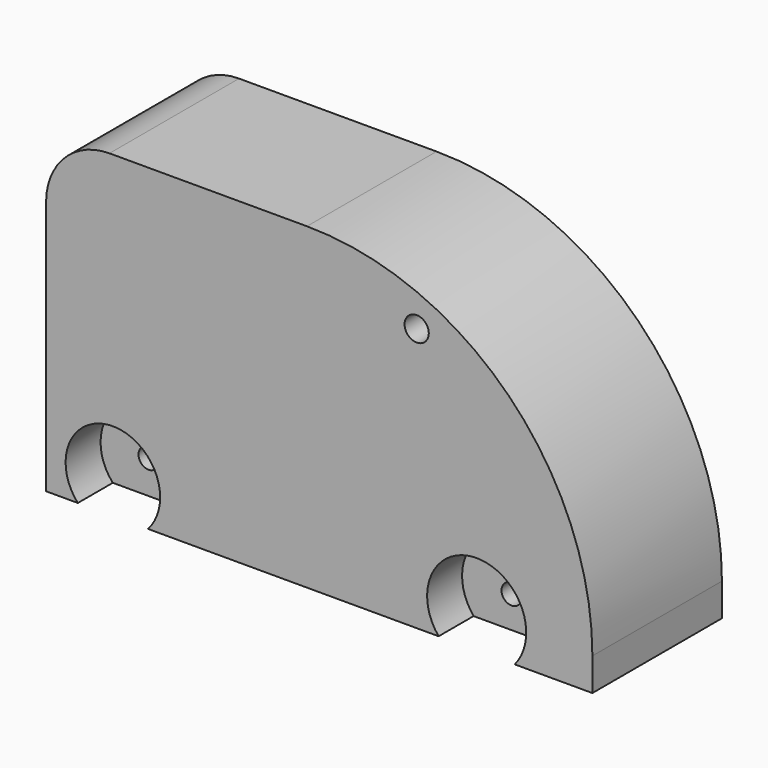
from build123d import *

# Parameters (mm, degrees)
F0_R     = 3.800771
F1_DEPTH = 50.8
F3_D     = 6.35
F2_R     = 14.830071
F2_R_2   = 15.542538
F4_DEPTH = 50.8
F6_DEPTH = 25.4
F8_D     = 6.35
F9_D     = 6.35


with BuildPart() as f1:
    # F0 (on Front) → F1 (new body)
    with BuildSketch(Plane.XZ):
        with BuildLine():
            Line((-17.417282, 46.986144), (-79.371665, 46.986144))
            ThreePointArc((-79.371665, 46.986144), (-93.436013, 41.160501), (-99.261656, 27.096153))
            Line((-99.261656, 27.096153), (-99.261656, -52.813884))
            Line((-99.261656, -52.813884), (72.118267, -52.813884))
            Line((72.118267, -52.813884), (72.118267, -42.549405))
            ThreePointArc((72.118267, -42.549405), (45.893912, 20.761789), (-17.417282, 46.986144))
        make_face()
        with Locations((17.000813, 29.867163)):
            Circle(F0_R, mode=Mode.SUBTRACT)
    extrude(amount=F1_DEPTH)

    # F3 (through all)
    with Locations(Plane.XZ.offset(50.8)):
        with Locations((-78.307003, -42.858165), (35.819549, -42.858165)):
            Hole(F3_D / 2)

    # F2 (on face) → F4 (cut)
    with BuildSketch(Plane.XZ.offset(50.8)):
        with Locations((-78.307003, -42.858165)):
            Circle(F2_R)
        with Locations((35.819549, -42.858165)):
            Circle(F2_R_2)
    extrude(amount=-F4_DEPTH, mode=Mode.SUBTRACT)

    # F5 (on face) → F6 (join)
    with BuildSketch(Plane(origin=(0, 0, -52.813884), x_dir=(1, 0, 0), z_dir=(0, 0, -1))):
        Polygon((23.884133, 22.274217), (23.884133, 18.090272), (23.884133, 13.775429), (55.002525, 13.775429), (55.002525, 37.086386), (23.884133, 37.086386), (23.884133, 35.816312), align=None)
        Polygon((9.837548, 22.274217), (23.884133, 22.274217), (23.884133, 35.816312), (23.884133, 37.086386), (9.837548, 37.086386), align=None)
        Polygon((23.884133, 13.775429), (23.884133, 18.090272), (23.884133, 22.274217), (9.837548, 22.274217), (9.837548, 13.775429), align=None)
        Polygon((-67.315431, 17.847452), (-67.315431, 13.775429), (-54.996047, 13.775429), (-54.996047, 37.086386), (-67.315431, 37.086386), (-67.315431, 35.087846), align=None)
        Polygon((-96.761517, 13.775429), (-67.315431, 13.775429), (-67.315431, 17.847452), (-67.315431, 35.087846), (-67.315431, 37.086386), (-96.761517, 37.086386), align=None)
    extrude(amount=-F6_DEPTH)

    # F8 (through all)
    with Locations(Plane(origin=(0, -13.775429, 0), x_dir=(-1, 0, 0), z_dir=(0, 1, 0))):
        with Locations((-35.819549, -42.858165)):
            Hole(F8_D / 2)

    # F9 (through all)
    with Locations(Plane(origin=(0, -13.775429, 0), x_dir=(-1, 0, 0), z_dir=(0, 1, 0))):
        with Locations((78.064188, -42.372521)):
            Hole(F9_D / 2)


solid = f1.part
